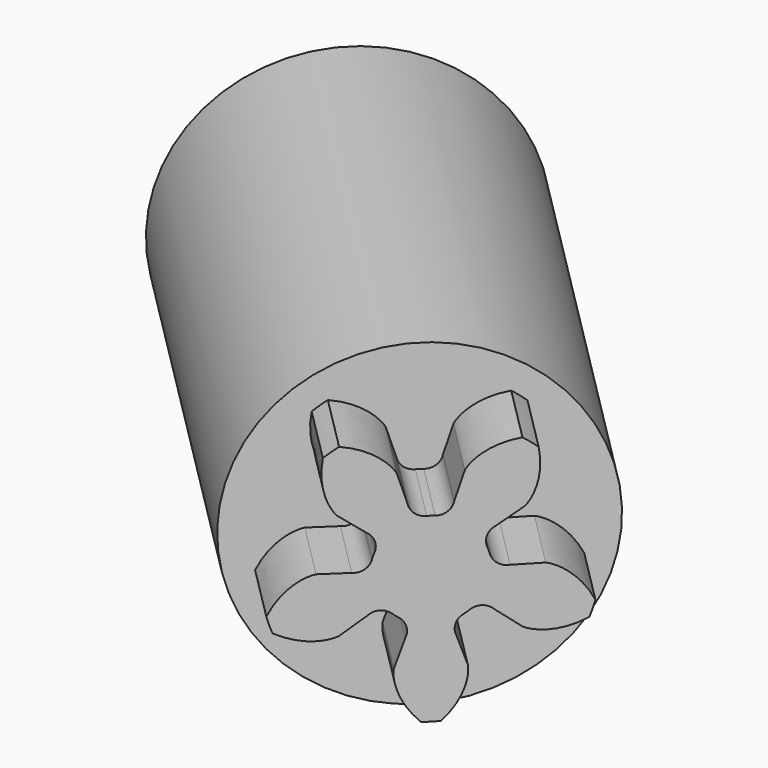
from build123d import *

# Parameters (mm, degrees)
PAD035_DEPTH            = 1.5
SKETCH054_R             = 3
PAD036_DEPTH            = 1.5
SKETCH055_R             = 3
SKETCH055_R_2           = 2.1
PAD037_DEPTH            = 8
BODY021_PITCH_ANGLE     = 90
BODY021_PLACEMENT_ANGLE = -45


with BuildPart() as part:
    # InvoluteGear006 → Pad035 (new body)
    with BuildSketch(Plane.XY):
        with BuildLine():
            Line((1.110631, -0.379257), (1.611002, -0.549274))
            add(Edge.make_bspline(
                [(1.611002, -0.549274), (1.657084, -0.555348), (1.841436, -0.576411), (2.183492, -0.491872), (2.515793, -0.147021)],
                knots=[0, 0, 0, 0, 0, 1, 1, 1, 1, 1], degree=4))
            ThreePointArc((2.515793, -0.147021), (2.520042, 0.0016), (2.515519, 0.150213))
            add(Edge.make_bspline(
                [(2.515519, 0.150213), (2.183492, 0.491872), (1.841436, 0.576411), (1.657084, 0.555348), (1.611002, 0.549274)],
                knots=[0, 0, 0, 0, 0, 1, 1, 1, 1, 1], degree=4))
            Line((1.611002, 0.549274), (1.110631, 0.379257))
            ThreePointArc((1.110631, 0.379257), (0.918725, 0.36265), (0.763436, 0.476619))
            ThreePointArc((0.763436, 0.476619), (0.728115, 0.529007), (0.689206, 0.578787))
            ThreePointArc((0.689206, 0.578787), (0.628802, 0.761694), (0.703899, 0.939076))
            Line((0.703899, 0.939076), (1.020218, 1.362419))
            add(Edge.make_bspline(
                [(1.020218, 1.362419), (1.040234, 1.404369), (1.117234, 1.573189), (1.142534, 1.924628), (0.917248, 2.34723)],
                knots=[0, 0, 0, 0, 0, 1, 1, 1, 1, 1], degree=4))
            ThreePointArc((0.917248, 2.34723), (0.777214, 2.397197), (0.634477, 2.438819))
            add(Edge.make_bspline(
                [(0.634477, 2.438819), (0.206938, 2.228621), (0.020836, 1.92943), (-0.0161, 1.747593), (-0.024564, 1.701889)],
                knots=[0, 0, 0, 0, 0, 1, 1, 1, 1, 1], degree=4))
            Line((-0.024564, 1.701889), (-0.017491, 1.17347))
            ThreePointArc((-0.017491, 1.17347), (-0.060999, 0.985824), (-0.217377, 0.873354))
            ThreePointArc((-0.217377, 0.873354), (-0.278115, 0.855951), (-0.337483, 0.834329))
            ThreePointArc((-0.337483, 0.834329), (-0.530104, 0.833403), (-0.675598, 0.959638))
            Line((-0.675598, 0.959638), (-0.980473, 1.391296))
            add(Edge.make_bspline(
                [(-0.980473, 1.391296), (-1.014184, 1.423295), (-1.150947, 1.548695), (-1.477367, 1.681357), (-1.948903, 1.597689)],
                knots=[0, 0, 0, 0, 0, 1, 1, 1, 1, 1], degree=4))
            ThreePointArc((-1.948903, 1.597689), (-2.039698, 1.479949), (-2.123391, 1.35706))
            add(Edge.make_bspline(
                [(-2.123391, 1.35706), (-2.055597, 0.885492), (-1.828559, 0.616043), (-1.667035, 0.524724), (-1.626183, 0.502551)],
                knots=[0, 0, 0, 0, 0, 1, 1, 1, 1, 1], degree=4))
            Line((-1.626183, 0.502551), (-1.121441, 0.345987))
            ThreePointArc((-1.121441, 0.345987), (-0.956425, 0.246623), (-0.897782, 0.063143))
            ThreePointArc((-0.897782, 0.063143), (-0.9, 0), (-0.897782, -0.063143))
            ThreePointArc((-0.897782, -0.063143), (-0.956425, -0.246623), (-1.121441, -0.345987))
            Line((-1.121441, -0.345987), (-1.626183, -0.502551))
            add(Edge.make_bspline(
                [(-1.626183, -0.502551), (-1.667035, -0.524724), (-1.828559, -0.616043), (-2.055597, -0.885492), (-2.121736, -1.359804)],
                knots=[0, 0, 0, 0, 0, 1, 1, 1, 1, 1], degree=4))
            ThreePointArc((-2.121736, -1.359804), (-2.037816, -1.482538), (-1.946804, -1.60011))
            add(Edge.make_bspline(
                [(-1.946804, -1.60011), (-1.477367, -1.681357), (-1.150947, -1.548695), (-1.014184, -1.423295), (-0.980473, -1.391296)],
                knots=[0, 0, 0, 0, 0, 1, 1, 1, 1, 1], degree=4))
            Line((-0.980473, -1.391296), (-0.675598, -0.959638))
            ThreePointArc((-0.675598, -0.959638), (-0.530104, -0.833403), (-0.337483, -0.834329))
            ThreePointArc((-0.337483, -0.834329), (-0.278115, -0.855951), (-0.217377, -0.873354))
            ThreePointArc((-0.217377, -0.873354), (-0.060999, -0.985824), (-0.017491, -1.17347))
            Line((-0.017491, -1.17347), (-0.024564, -1.701889))
            add(Edge.make_bspline(
                [(-0.024564, -1.701889), (-0.0161, -1.747593), (0.020836, -1.92943), (0.206938, -2.228621), (0.637598, -2.438094)],
                knots=[0, 0, 0, 0, 0, 1, 1, 1, 1, 1], degree=4))
            ThreePointArc((0.637598, -2.438094), (0.780258, -2.396208), (0.9202, -2.345982))
            add(Edge.make_bspline(
                [(0.9202, -2.345982), (1.142534, -1.924628), (1.117234, -1.573189), (1.040234, -1.404369), (1.020218, -1.362419)],
                knots=[0, 0, 0, 0, 0, 1, 1, 1, 1, 1], degree=4))
            Line((1.020218, -1.362419), (0.703899, -0.939076))
            ThreePointArc((0.703899, -0.939076), (0.628802, -0.761694), (0.689206, -0.578787))
            ThreePointArc((0.689206, -0.578787), (0.728115, -0.529007), (0.763436, -0.476619))
            ThreePointArc((0.763436, -0.476619), (0.918725, -0.36265), (1.110631, -0.379257))
        make_face()
    extrude(amount=PAD035_DEPTH)

    # Sketch054 (on Face41 of Pad035) → Pad036 (join)
    with BuildSketch(Plane(origin=(0, 0, 0), x_dir=(1, 0, 0), z_dir=(0, 0, -1))):
        Circle(SKETCH054_R)
    extrude(amount=PAD036_DEPTH)

    # Sketch055 (on Face3 of Pad036) → Pad037 (join)
    with BuildSketch(Plane(origin=(0, 0, -1.5), x_dir=(1, 0, 0), z_dir=(0, 0, -1))):
        Circle(SKETCH055_R)
        Circle(SKETCH055_R_2, mode=Mode.SUBTRACT)
    extrude(amount=PAD037_DEPTH)


with BuildPart() as part_1:
    # Body021 pitch: moved
    add(part.part.rotate(Axis((0, 0, 0), (0, 1, 0)), BODY021_PITCH_ANGLE))


with BuildPart() as part_2:
    # Body021 placement: moved
    add(part_1.part.moved(Location((50, -43, 0))).rotate(Axis((50, -43, 0), (0, 0, 1)), BODY021_PLACEMENT_ANGLE))


solid = part_2.part
